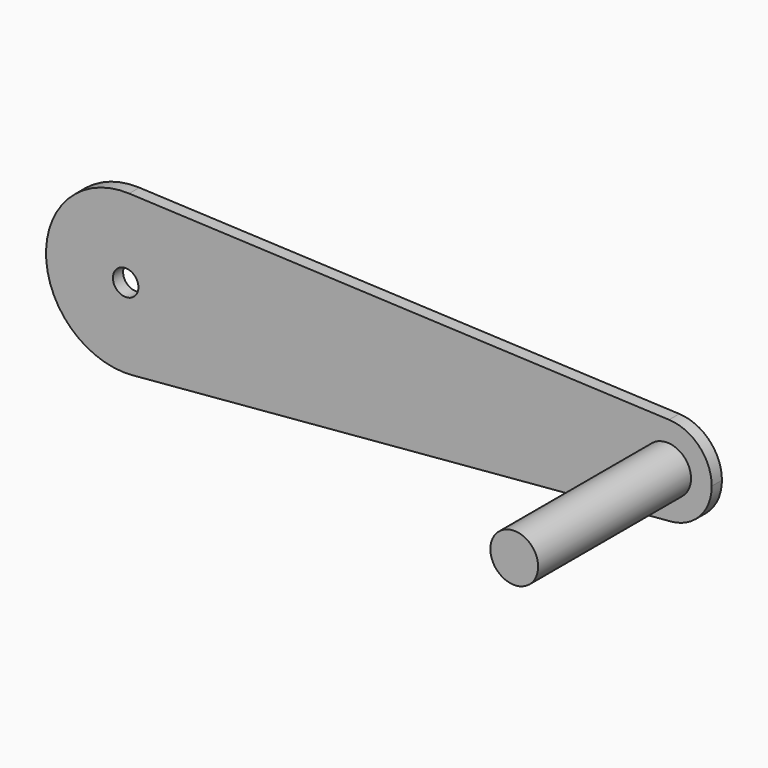
from build123d import *

# Parameters (mm, degrees)
F0_R     = 4
F0_R_2   = 7.5
F1_DEPTH = 4
F2_DEPTH = 60


with BuildPart() as f1:
    # F0 (on Front) → F1 (new body)
    with BuildSketch(Plane.XZ):
        with BuildLine():
            ThreePointArc((2.14326, -24.907959), (18.419847, -16.902936), (25, 0))
            ThreePointArc((25, 0), (18.059137, 17.287787), (1.090594, 24.976201))
            ThreePointArc((1.090594, 24.976201), (-24.994436, -0.527438), (2.14326, -24.907959))
        make_face()
        Circle(F0_R, mode=Mode.SUBTRACT)
        with BuildLine():
            ThreePointArc((1.090594, 24.976201), (18.059137, 17.287787), (25, 0))
            ThreePointArc((25, 0), (18.419847, -16.902936), (2.14326, -24.907959))
            Line((2.14326, -24.907959), (171.200226, -10.361081))
            ThreePointArc((171.200226, -10.361081), (156.003116, 3.292011), (170.610733, 17.574048))
            Line((170.610733, 17.574048), (1.090594, 24.976201))
        make_face()
        with BuildLine():
            ThreePointArc((184, 3.587376), (180.113117, 13.268537), (170.610733, 17.574048))
            ThreePointArc((170.610733, 17.574048), (156.003116, 3.292011), (171.200226, -10.361081))
            ThreePointArc((171.200226, -10.361081), (180.315114, -5.878268), (184, 3.587376))
        make_face()
        with Locations((170, 3.587376)):
            Circle(F0_R_2, mode=Mode.SUBTRACT)
        with Locations((170, 3.587376)):
            Circle(F0_R_2)
    extrude(amount=-F1_DEPTH)

    # F0 (on Front) → F2 (join)
    with BuildSketch(Plane.XZ):
        with Locations((170, 3.587376)):
            Circle(F0_R_2)
    extrude(amount=F2_DEPTH)


solid = f1.part
